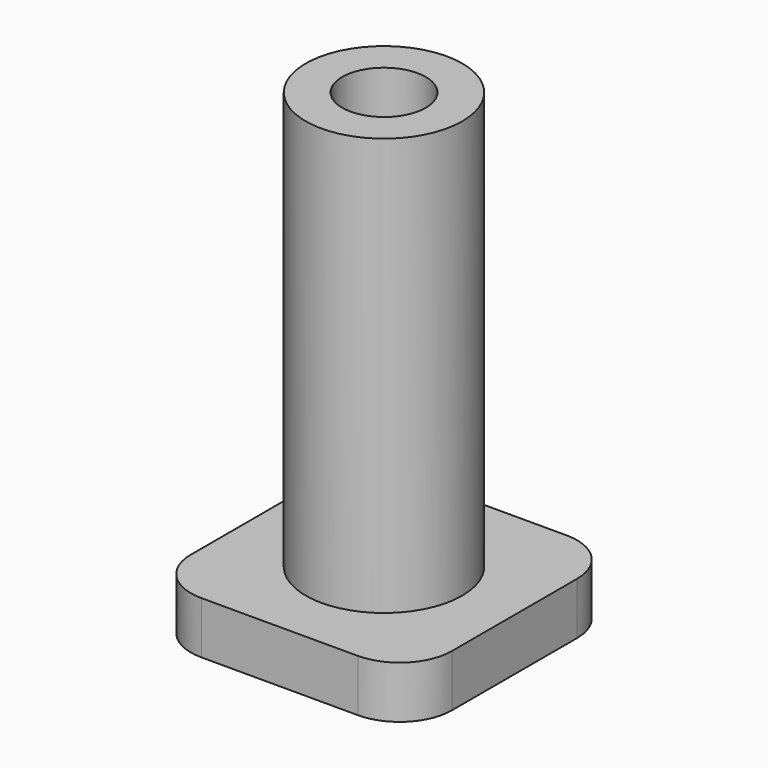
from build123d import *

# Parameters (mm, degrees)
F2_DEPTH = 5
F0_R     = 7.5
F0_R_2   = 4
F3_DEPTH = 45
F4_R     = 5
F5_DEPTH = 45


with BuildPart() as f2:
    # F1 (on Top) → F2 (new body)
    with BuildSketch(Plane.XY):
        Polygon((-12.5, -12.5), (0, -12.5), (12.5, -12.5), (12.5, 12.5), (-12.5, 12.5), align=None)
    extrude(amount=F2_DEPTH)

    # F0 (on Top) → F3 (join)
    with BuildSketch(Plane.XY):
        Circle(F0_R)
        Circle(F0_R_2, mode=Mode.SUBTRACT)
    extrude(amount=F3_DEPTH)

    # F4
    f4_edges = [f2.edges().sort_by_distance(p)[0] for p in [
        (12.5, 12.5, 2.5),
        (-12.5, 12.5, 2.5),
        (12.5, -12.5, 2.5),
        (-12.5, -12.5, 2.5),
    ]]
    fillet(f4_edges, radius=F4_R)

    # F0 (on Top) → F5 (cut)
    with BuildSketch(Plane.XY):
        Circle(F0_R_2)
    extrude(amount=F5_DEPTH, mode=Mode.SUBTRACT)


solid = f2.part
